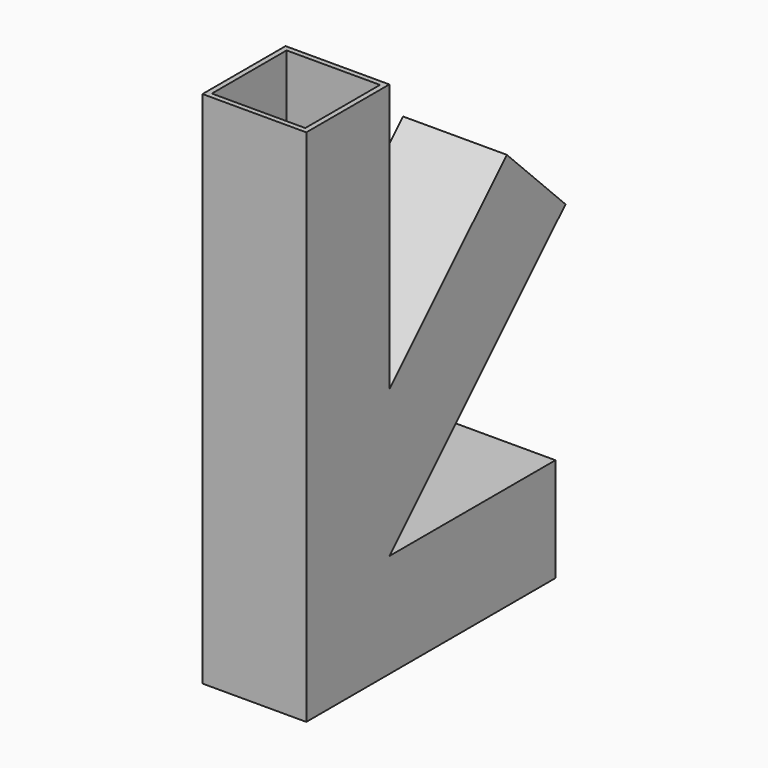
from build123d import *

# Parameters (mm, degrees)
F1_DEPTH = 50.8
F2_T     = -2.54


with BuildPart() as f1:
    # F0 (on Right) → F1 (new body)
    with BuildSketch(Plane.YZ):
        Polygon((34.302975136, 131.3579510314), (-16.497024864, 131.3579510314), (-16.497024864, -122.6420489686), (34.302975136, -122.6420489686), (135.902975136, -122.6420489686), (135.902975136, -71.8420489686), (34.302975136, -71.8420489686), (142.0660485888, 35.9210244843), (106.1450241045, 71.8420489686), (34.302975136, 0), align=None)
    extrude(amount=F1_DEPTH)

    # F2
    f2_openings = [f1.faces().sort_by_distance(p)[0] for p in [
        (25.4, 8.902975, 131.357951),
        (25.4, 124.105536, 53.881537),
        (25.4, 135.902975, -97.242049),
    ]]
    offset(amount=F2_T, openings=f2_openings, kind=Kind.INTERSECTION)


solid = f1.part
